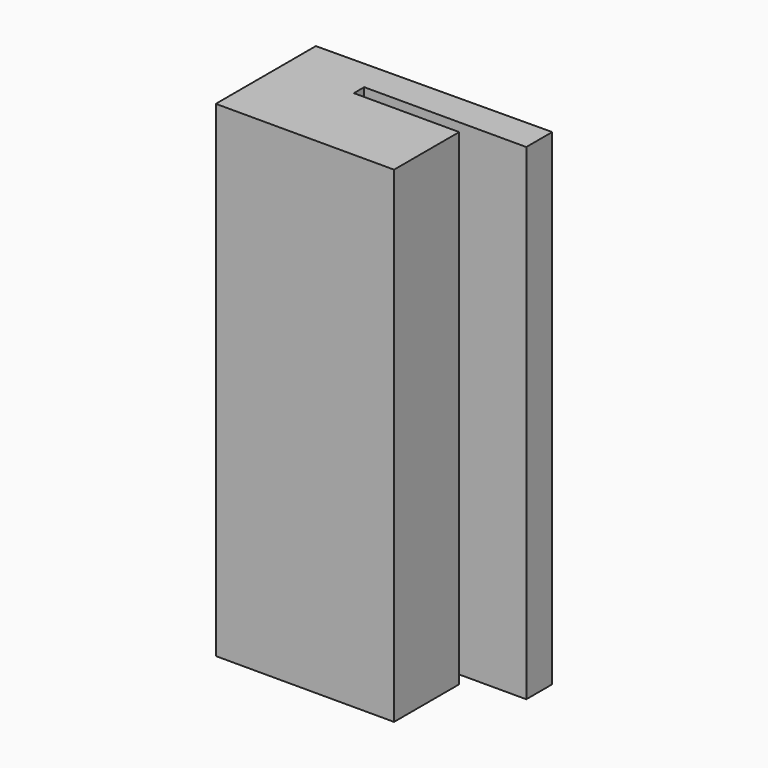
from build123d import *

# Parameters (mm, degrees)
F1_DEPTH = 60
F2_R     = 5
F3_DEPTH = 2.5


with BuildPart() as f1:
    # F0 (on Top) → F1 (new body)
    with BuildSketch(Plane.XY):
        Polygon((-8.247483, 5.6), (-37.246638, 5.378633), (-37.246638, -10.05), (-15.246638, -10.05), (-15.246638, 0), (-28.246638, 0), (-28.246638, 1.6), (-8.247483, 1.6), align=None)
    extrude(amount=F1_DEPTH)

    # F2 (on face) → F3 (cut)
    with BuildSketch(Plane(origin=(-0.043226, 5.662628, 0), x_dir=(-0.999971, -0.007633, 0), z_dir=(-0.007633, 0.999971, 0))):
        with Locations((15.311011, 7.154583)):
            Circle(F2_R)
        with Locations((15.311011, 22.154583)):
            Circle(F2_R)
        with Locations((15.311011, 37.154583)):
            Circle(F2_R)
        with Locations((15.311011, 52.154583)):
            Circle(F2_R)
    extrude(amount=-F3_DEPTH, mode=Mode.SUBTRACT)


solid = f1.part
